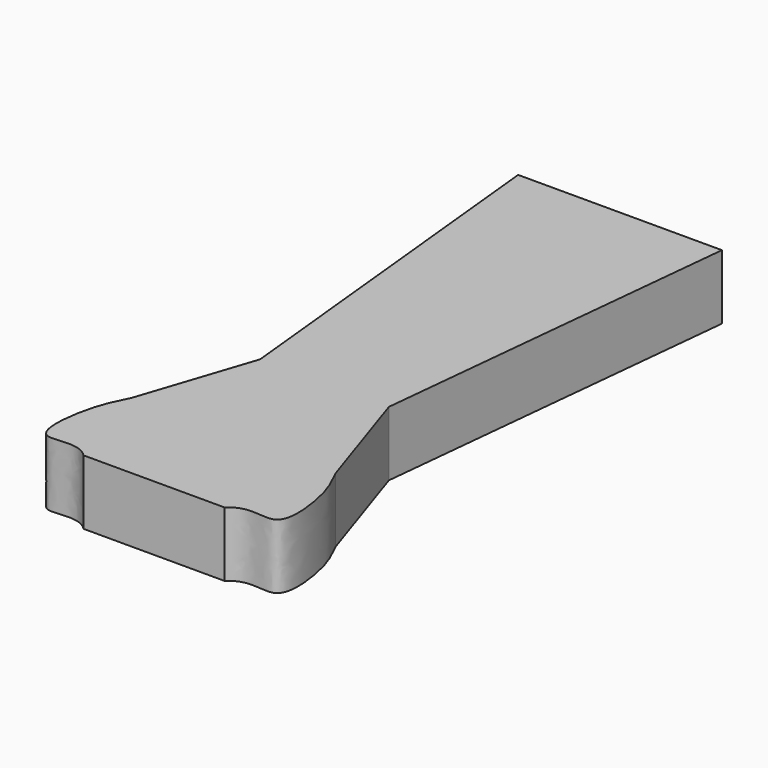
from build123d import *

# Parameters (mm, degrees)
F1_DEPTH = 12.7


with BuildPart() as f1:
    # F0 (on Top) → F1 (new body)
    with BuildSketch(Plane.XY):
        with BuildLine():
            Line((0, 52.0365796983), (-20.0025, 52.0365796983))
            Line((-20.0025, 52.0365796983), (-12.633157894, -20.4536858946))
            Line((-12.633157894, -20.4536858946), (-20.0025, -42.7121035755))
            add(Edge.make_bspline(
                [(-20.0025, -42.7121035755), (-21.1866346696, -45.1468080489), (-23.1579199792, -48.7548194432), (-25.0683852323, -64.3099806953), (-16.9383073123, -59.2079587227), (-13.8363149017, -62.2634203017)],
                knots=[0, 0, 0, 0, 0.3090403224, 0.6689788708, 1, 1, 1, 1], degree=3))
            Line((-13.8363149017, -62.2634203017), (0, -62.2634203017))
            Line((0, -62.2634203017), (13.8363149017, -62.2634203017))
            add(Edge.make_bspline(
                [(20.0025, -42.7121035755), (21.1866346696, -45.1468080489), (23.1579199792, -48.7548194432), (25.0683852323, -64.3099806953), (16.9383073123, -59.2079587227), (13.8363149017, -62.2634203017)],
                knots=[0, 0, 0, 0, 0.3090403224, 0.6689788708, 1, 1, 1, 1], degree=3))
            Line((20.0025, -42.7121035755), (12.633157894, -20.4536858946))
            Line((12.633157894, -20.4536858946), (20.0025, 52.0365796983))
            Line((20.0025, 52.0365796983), (0, 52.0365796983))
        make_face()
    extrude(amount=F1_DEPTH)


solid = f1.part
